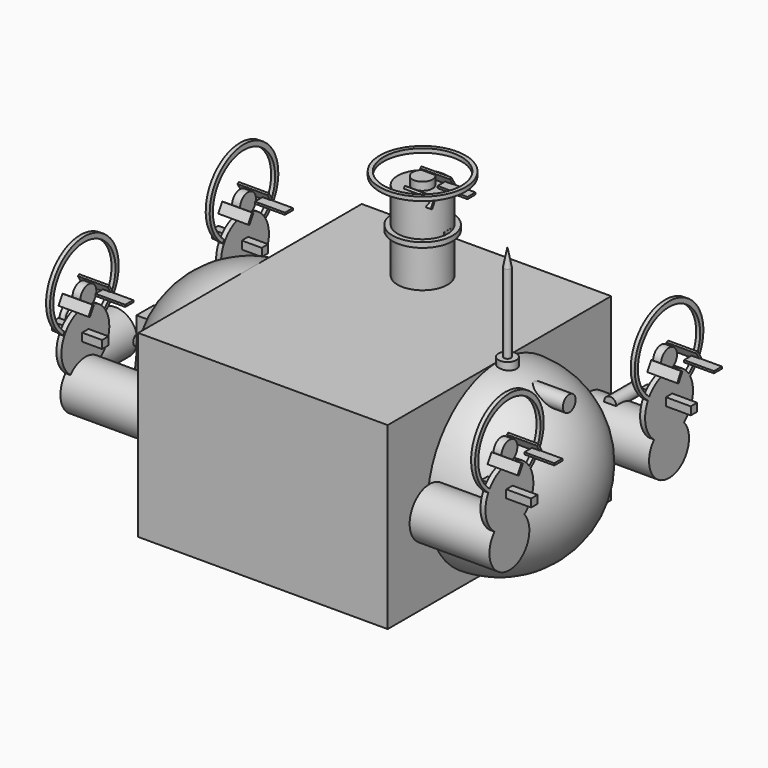
from build123d import *

# Parameters (mm, degrees)
CENTERINNER_W              = 242
CENTERINNER_H              = 272
CENTERINNER_DEPTH          = 172
CENTERBODY_W               = 250
CENTERBODY_H               = 280
CENTERBODY_DEPTH           = 180
OBJ1_R                = 30
OBJ1_DEPTH            = 5
OBJ2_R                   = 10
OBJ2_DEPTH               = 8
OBJ3_R               = 39
OBJ3_DEPTH           = 6
OBJ4              = 43
OBJ5          = 4
OBJ6_W                   = 50
OBJ6_H                   = 8
OBJ6_DEPTH               = 8
OBJ7               = 30
OBJ8               = 10
OBJ9           = 2
OBJ10               = 30
OBJ11               = 10
OBJ12           = 2
OBJ13 = 120
OBJ14               = 30
OBJ15               = 10
OBJ16           = 2
OBJ17 = 240
OBJ18                 = 25
OBJ19             = 80
FLANGE_FR_R                = 30
FLANGE_FR_DEPTH            = 5
HUB_FR_R                   = 10
HUB_FR_DEPTH               = 8
OBJ20_R               = 39
OBJ20_DEPTH           = 6
OBJ21              = 43
OBJ22          = 4
ARM_FR_W                   = 50
ARM_FR_H                   = 8
ARM_FR_DEPTH               = 8
BLADE_FR_0_W               = 30
BLADE_FR_0_H               = 10
BLADE_FR_0_DEPTH           = 2
BLADE_FR_1_W               = 30
BLADE_FR_1_H               = 10
BLADE_FR_1_DEPTH           = 2
BLADE_FR_1_PLACEMENT_ANGLE = 120
BLADE_FR_2_W               = 30
BLADE_FR_2_H               = 10
BLADE_FR_2_DEPTH           = 2
BLADE_FR_2_PLACEMENT_ANGLE = 240
MOTOR_FR_R                 = 25
MOTOR_FR_DEPTH             = 80
OBJ23_R                = 30
OBJ23_DEPTH            = 5
OBJ24_R                   = 10
OBJ24_DEPTH               = 8
OBJ25_R               = 39
OBJ25_DEPTH           = 6
OBJ26              = 43
OBJ27          = 4
OBJ28_W                   = 50
OBJ28_H                   = 8
OBJ28_DEPTH               = 8
OBJ29               = 30
OBJ30               = 10
OBJ31           = 2
OBJ32               = 30
OBJ33               = 10
OBJ34           = 2
OBJ35 = 120
OBJ36               = 30
OBJ37               = 10
OBJ38           = 2
OBJ39 = 240
OBJ40                 = 25
OBJ41             = 80
FLANGE_RR_R                = 30
FLANGE_RR_DEPTH            = 5
HUB_RR_R                   = 10
HUB_RR_DEPTH               = 8
OBJ42_R               = 39
OBJ42_DEPTH           = 6
OBJ43              = 43
OBJ44          = 4
ARM_RR_W                   = 50
ARM_RR_H                   = 8
ARM_RR_DEPTH               = 8
BLADE_RR_0_W               = 30
BLADE_RR_0_H               = 10
BLADE_RR_0_DEPTH           = 2
BLADE_RR_1_W               = 30
BLADE_RR_1_H               = 10
BLADE_RR_1_DEPTH           = 2
BLADE_RR_1_PLACEMENT_ANGLE = 120
BLADE_RR_2_W               = 30
BLADE_RR_2_H               = 10
BLADE_RR_2_DEPTH           = 2
BLADE_RR_2_PLACEMENT_ANGLE = 240
MOTOR_RR_R                 = 25
MOTOR_RR_DEPTH             = 80
FLANGE_TV_R                = 30
FLANGE_TV_DEPTH            = 5
HUB_TV_R                   = 10
HUB_TV_DEPTH               = 8
OBJ45_R               = 39
OBJ45_DEPTH           = 6
OBJ46              = 43
OBJ47          = 4
ARM_TV_W                   = 50
ARM_TV_H                   = 8
ARM_TV_DEPTH               = 8
BLADE_TV_0_W               = 30
BLADE_TV_0_H               = 10
BLADE_TV_0_DEPTH           = 2
BLADE_TV_1_W               = 30
BLADE_TV_1_H               = 10
BLADE_TV_1_DEPTH           = 2
BLADE_TV_1_PLACEMENT_ANGLE = 120
BLADE_TV_2_W               = 30
BLADE_TV_2_H               = 10
BLADE_TV_2_DEPTH           = 2
BLADE_TV_2_PLACEMENT_ANGLE = 240
MOTOR_TV_R                 = 25
MOTOR_TV_DEPTH             = 80
OBJ48_R                = 30
OBJ48_DEPTH            = 5
OBJ49_R                   = 10
OBJ49_DEPTH               = 8
OBJ50_R               = 39
OBJ50_DEPTH           = 6
OBJ51              = 43
OBJ52          = 4
OBJ53_W                   = 50
OBJ53_H                   = 8
OBJ53_DEPTH               = 8
OBJ54               = 30
OBJ55               = 10
OBJ56           = 2
OBJ57               = 30
OBJ58               = 10
OBJ59           = 2
OBJ60 = 120
OBJ61               = 30
OBJ62               = 10
OBJ63           = 2
OBJ64 = 240
OBJ65                 = 25
OBJ66             = 80
BATTERYHOUSING_W           = 140
BATTERYHOUSING_H           = 90
BATTERYHOUSING_DEPTH       = 70
CELL_0_0_R                 = 9
CELL_0_0_DEPTH             = 65
CELL_0_1_R                 = 9
CELL_0_1_DEPTH             = 65
CELL_1_0_R                 = 9
CELL_1_0_DEPTH             = 65
CELL_1_1_R                 = 9
CELL_1_1_DEPTH             = 65
CELL_2_0_R                 = 9
CELL_2_0_DEPTH             = 65
CELL_2_1_R                 = 9
CELL_2_1_DEPTH             = 65
CELL_3_0_R                 = 9
CELL_3_0_DEPTH             = 65
CELL_3_1_R                 = 9
CELL_3_1_DEPTH             = 65
OBJ67_W                      = 50
OBJ67_H                      = 35
OBJ67_DEPTH                  = 2
MAINPCB_W                  = 180
MAINPCB_H                  = 120
MAINPCB_DEPTH              = 1.6
OBJ68_W                      = 35
OBJ68_H                      = 35
OBJ68_DEPTH                  = 4
ESC_0_W                    = 38
ESC_0_H                    = 20
ESC_0_DEPTH                = 10
ESC_1_W                    = 38
ESC_1_H                    = 20
ESC_1_DEPTH                = 10
ESC_2_W                    = 38
ESC_2_H                    = 20
ESC_2_DEPTH                = 10
ESC_3_W                    = 38
ESC_3_H                    = 20
ESC_3_DEPTH                = 10
ESC_4_W                    = 38
ESC_4_H                    = 20
ESC_4_DEPTH                = 10
ESC_5_W                    = 38
ESC_5_H                    = 20
ESC_5_DEPTH                = 10
POWERCONNECTOR_R           = 8
POWERCONNECTOR_DEPTH       = 35
OBJ69_R            = 6
OBJ69_DEPTH        = 30
SERVOBOX_W                 = 45
SERVOBOX_H                 = 22
SERVOBOX_DEPTH             = 38
LINESPOOL_R                = 22
LINESPOOL_DEPTH            = 45
GUIDEINNER_R               = 3
GUIDEINNER_DEPTH           = 50
GUIDEOUTER_R               = 5
GUIDEOUTER_DEPTH           = 45
HOOKRING_R                 = 2.5
LENS_R                     = 9
LENS_DEPTH                 = 12
LED_LEFT_R                 = 11
LED_LEFT_DEPTH             = 22
LED_RIGHT_R                = 11
LED_RIGHT_DEPTH            = 22
ANTENNABASE_R              = 9
ANTENNABASE_DEPTH          = 12
ANTENNAMAST_R              = 3.5
ANTENNAMAST_DEPTH          = 85


with BuildPart() as noseinner:
    # NoseInner → NoseInner (revolve)
    with BuildSketch(Plane(origin=(-123, 0, 0), x_dir=(1, 0, 0), z_dir=(0, -1, 0))):
        with BuildLine():
            ThreePointArc((0, -86), (86, 0), (0, 86))
            Line((0, 86), (0, -86))
        make_face()
    revolve(axis=Axis((-123, 0, 0), (0, 0, 1)))


with BuildPart() as tailinner:
    # TailInner → TailInner (revolve)
    with BuildSketch(Plane(origin=(123, 0, 0), x_dir=(1, 0, 0), z_dir=(0, -1, 0))):
        with BuildLine():
            ThreePointArc((0, -86), (86, 0), (0, 86))
            Line((0, 86), (0, -86))
        make_face()
    revolve(axis=Axis((123, 0, 0), (0, 0, 1)))


with BuildPart() as bodyinner:
    # CenterInner → CenterInner (new body)
    with BuildSketch(Plane(origin=(-121, -136, -86), x_dir=(1, 0, 0), z_dir=(0, 0, 1))):
        with Locations((121, 136)):
            Rectangle(CENTERINNER_W, CENTERINNER_H)
    extrude(amount=CENTERINNER_DEPTH)

    # BodyInner: union NoseInner, TailInner
    add(noseinner.part)
    add(tailinner.part)


with BuildPart() as nose:
    # Nose → Nose (revolve)
    with BuildSketch(Plane(origin=(-125, 0, 0), x_dir=(1, 0, 0), z_dir=(0, -1, 0))):
        with BuildLine():
            ThreePointArc((0, -90), (90, 0), (0, 90))
            Line((0, 90), (0, -90))
        make_face()
    revolve(axis=Axis((-125, 0, 0), (0, 0, 1)))


with BuildPart() as tail:
    # Tail → Tail (revolve)
    with BuildSketch(Plane(origin=(125, 0, 0), x_dir=(1, 0, 0), z_dir=(0, -1, 0))):
        with BuildLine():
            ThreePointArc((0, -90), (90, 0), (0, 90))
            Line((0, 90), (0, -90))
        make_face()
    revolve(axis=Axis((125, 0, 0), (0, 0, 1)))


with BuildPart() as hollowbody:
    # CenterBody → CenterBody (new body)
    with BuildSketch(Plane(origin=(-125, -140, -90), x_dir=(1, 0, 0), z_dir=(0, 0, 1))):
        with Locations((125, 140)):
            Rectangle(CENTERBODY_W, CENTERBODY_H)
    extrude(amount=CENTERBODY_DEPTH)

    # BodyOuter: union Nose, Tail
    add(nose.part)
    add(tail.part)

    # HollowBody: cut BodyInner
    add(bodyinner.part, mode=Mode.SUBTRACT)


with BuildPart() as obj1:
    # obj1 → obj1 (new body)
    with BuildSketch(Plane(origin=(-215, 100, 40), x_dir=(0, 0, -1), z_dir=(1, 0, 0))):
        Circle(OBJ1_R)
    extrude(amount=OBJ1_DEPTH)


with BuildPart() as obj2:
    # obj2 → obj2 (new body)
    with BuildSketch(Plane(origin=(-215, 100, 80), x_dir=(0, 0, -1), z_dir=(1, 0, 0))):
        Circle(OBJ2_R)
    extrude(amount=OBJ2_DEPTH)


with BuildPart() as obj3:
    # obj3 → obj3 (new body)
    with BuildSketch(Plane(origin=(-215, 100, 87), x_dir=(0, 0, -1), z_dir=(1, 0, 0))):
        Circle(OBJ3_R)
    extrude(amount=OBJ3_DEPTH)


with BuildPart() as obj70:
    with BuildSketch(Plane(origin=(-215, 100, 88), x_dir=(0, 0, -1), z_dir=(1, 0, 0))):
        Circle(OBJ4)
    extrude(amount=OBJ5)

    # obj70: cut obj3
    add(obj3.part, mode=Mode.SUBTRACT)


with BuildPart() as obj6:
    # obj6 → obj6 (new body)
    with BuildSketch(Plane(origin=(-240, 96, 40), x_dir=(1, 0, 0), z_dir=(0, 0, 1))):
        with Locations((25, 4)):
            Rectangle(OBJ6_W, OBJ6_H)
    extrude(amount=OBJ6_DEPTH)


with BuildPart() as obj71:
    with BuildSketch(Plane(origin=(-200, 100, 82), x_dir=(1, 0, 0), z_dir=(0, 0, 1))):
        with Locations((15, 5)):
            Rectangle(OBJ7, OBJ8)
    extrude(amount=OBJ9)


with BuildPart() as obj72:
    with BuildSketch(Plane.XY):
        with Locations((15, 5)):
            Rectangle(OBJ10, OBJ11)
    extrude(amount=OBJ12)


with BuildPart() as obj72_1:
    add(obj72.part.moved(Location((-222.5, 112.990381, 82))).rotate(Axis((-222.5, 112.990381, 82), (1, 0, 0)), OBJ13))


with BuildPart() as obj73:
    with BuildSketch(Plane.XY):
        with Locations((15, 5)):
            Rectangle(OBJ14, OBJ15)
    extrude(amount=OBJ16)


with BuildPart() as obj73_1:
    add(obj73.part.moved(Location((-222.5, 87.009619, 82))).rotate(Axis((-222.5, 87.009619, 82), (1, 0, 0)), OBJ17))


with BuildPart() as obj74:
    with BuildSketch(Plane(origin=(-215, 100, 0), x_dir=(0, 0, -1), z_dir=(1, 0, 0))):
        Circle(OBJ18)
    extrude(amount=OBJ19)

    # obj74: union obj1, obj2, obj70, obj6, obj71, obj72, obj73
    add(obj1.part)
    add(obj2.part)
    add(obj70.part)
    add(obj6.part)
    add(obj71.part)
    add(obj72_1.part)
    add(obj73_1.part)


with BuildPart() as flange_fr:
    # Flange_FR → Flange_FR (new body)
    with BuildSketch(Plane(origin=(-215, -100, 40), x_dir=(0, 0, -1), z_dir=(1, 0, 0))):
        Circle(FLANGE_FR_R)
    extrude(amount=FLANGE_FR_DEPTH)


with BuildPart() as hub_fr:
    # Hub_FR → Hub_FR (new body)
    with BuildSketch(Plane(origin=(-215, -100, 80), x_dir=(0, 0, -1), z_dir=(1, 0, 0))):
        Circle(HUB_FR_R)
    extrude(amount=HUB_FR_DEPTH)


with BuildPart() as obj20:
    # obj20 → obj20 (new body)
    with BuildSketch(Plane(origin=(-215, -100, 87), x_dir=(0, 0, -1), z_dir=(1, 0, 0))):
        Circle(OBJ20_R)
    extrude(amount=OBJ20_DEPTH)


with BuildPart() as guard_fr:
    with BuildSketch(Plane(origin=(-215, -100, 88), x_dir=(0, 0, -1), z_dir=(1, 0, 0))):
        Circle(OBJ21)
    extrude(amount=OBJ22)

    # Guard_FR: cut obj20
    add(obj20.part, mode=Mode.SUBTRACT)


with BuildPart() as arm_fr:
    # Arm_FR → Arm_FR (new body)
    with BuildSketch(Plane(origin=(-240, -104, 40), x_dir=(1, 0, 0), z_dir=(0, 0, 1))):
        with Locations((25, 4)):
            Rectangle(ARM_FR_W, ARM_FR_H)
    extrude(amount=ARM_FR_DEPTH)


with BuildPart() as blade_fr_0_body:
    # Blade_FR_0 → Blade_FR_0 (new body)
    with BuildSketch(Plane(origin=(-200, -100, 82), x_dir=(1, 0, 0), z_dir=(0, 0, 1))):
        with Locations((15, 5)):
            Rectangle(BLADE_FR_0_W, BLADE_FR_0_H)
    extrude(amount=BLADE_FR_0_DEPTH)


with BuildPart() as blade_fr_1_body:
    # Blade_FR_1 → Blade_FR_1 (new body)
    with BuildSketch(Plane.XY):
        with Locations((15, 5)):
            Rectangle(BLADE_FR_1_W, BLADE_FR_1_H)
    extrude(amount=BLADE_FR_1_DEPTH)


with BuildPart() as blade_fr_1_body_1:
    # Blade_FR_1 placement: moved
    add(blade_fr_1_body.part.moved(Location((-222.5, -87.009619, 82))).rotate(Axis((-222.5, -87.009619, 82), (1, 0, 0)), BLADE_FR_1_PLACEMENT_ANGLE))


with BuildPart() as blade_fr_2_body:
    # Blade_FR_2 → Blade_FR_2 (new body)
    with BuildSketch(Plane.XY):
        with Locations((15, 5)):
            Rectangle(BLADE_FR_2_W, BLADE_FR_2_H)
    extrude(amount=BLADE_FR_2_DEPTH)


with BuildPart() as blade_fr_2_body_1:
    # Blade_FR_2 placement: moved
    add(blade_fr_2_body.part.moved(Location((-222.5, -112.990381, 82))).rotate(Axis((-222.5, -112.990381, 82), (1, 0, 0)), BLADE_FR_2_PLACEMENT_ANGLE))


with BuildPart() as thruster_fr:
    # Motor_FR → Motor_FR (new body)
    with BuildSketch(Plane(origin=(-215, -100, 0), x_dir=(0, 0, -1), z_dir=(1, 0, 0))):
        Circle(MOTOR_FR_R)
    extrude(amount=MOTOR_FR_DEPTH)

    # Thruster_FR: union Flange_FR, Hub_FR, Guard_FR, Arm_FR, Blade_FR_0 body, Blade_FR_1 body, Blade_FR_2 body
    add(flange_fr.part)
    add(hub_fr.part)
    add(guard_fr.part)
    add(arm_fr.part)
    add(blade_fr_0_body.part)
    add(blade_fr_1_body_1.part)
    add(blade_fr_2_body_1.part)


with BuildPart() as obj23:
    # obj23 → obj23 (new body)
    with BuildSketch(Plane(origin=(215, 100, 40), x_dir=(0, 0, 1), z_dir=(-1, 0, 0))):
        Circle(OBJ23_R)
    extrude(amount=OBJ23_DEPTH)


with BuildPart() as obj24:
    # obj24 → obj24 (new body)
    with BuildSketch(Plane(origin=(215, 100, 80), x_dir=(0, 0, 1), z_dir=(-1, 0, 0))):
        Circle(OBJ24_R)
    extrude(amount=OBJ24_DEPTH)


with BuildPart() as obj25:
    # obj25 → obj25 (new body)
    with BuildSketch(Plane(origin=(215, 100, 87), x_dir=(0, 0, 1), z_dir=(-1, 0, 0))):
        Circle(OBJ25_R)
    extrude(amount=OBJ25_DEPTH)


with BuildPart() as obj75:
    with BuildSketch(Plane(origin=(215, 100, 88), x_dir=(0, 0, 1), z_dir=(-1, 0, 0))):
        Circle(OBJ26)
    extrude(amount=OBJ27)

    # obj75: cut obj25
    add(obj25.part, mode=Mode.SUBTRACT)


with BuildPart() as obj28:
    # obj28 → obj28 (new body)
    with BuildSketch(Plane(origin=(190, 96, 40), x_dir=(1, 0, 0), z_dir=(0, 0, 1))):
        with Locations((25, 4)):
            Rectangle(OBJ28_W, OBJ28_H)
    extrude(amount=OBJ28_DEPTH)


with BuildPart() as obj76:
    with BuildSketch(Plane(origin=(230, 100, 82), x_dir=(1, 0, 0), z_dir=(0, 0, 1))):
        with Locations((15, 5)):
            Rectangle(OBJ29, OBJ30)
    extrude(amount=OBJ31)


with BuildPart() as obj77:
    with BuildSketch(Plane.XY):
        with Locations((15, 5)):
            Rectangle(OBJ32, OBJ33)
    extrude(amount=OBJ34)


with BuildPart() as obj77_1:
    add(obj77.part.moved(Location((207.5, 112.990381, 82))).rotate(Axis((207.5, 112.990381, 82), (1, 0, 0)), OBJ35))


with BuildPart() as obj78:
    with BuildSketch(Plane.XY):
        with Locations((15, 5)):
            Rectangle(OBJ36, OBJ37)
    extrude(amount=OBJ38)


with BuildPart() as obj78_1:
    add(obj78.part.moved(Location((207.5, 87.009619, 82))).rotate(Axis((207.5, 87.009619, 82), (1, 0, 0)), OBJ39))


with BuildPart() as obj79:
    with BuildSketch(Plane(origin=(215, 100, 0), x_dir=(0, 0, 1), z_dir=(-1, 0, 0))):
        Circle(OBJ40)
    extrude(amount=OBJ41)

    # obj79: union obj23, obj24, obj75, obj28, obj76, obj77, obj78
    add(obj23.part)
    add(obj24.part)
    add(obj75.part)
    add(obj28.part)
    add(obj76.part)
    add(obj77_1.part)
    add(obj78_1.part)


with BuildPart() as flange_rr:
    # Flange_RR → Flange_RR (new body)
    with BuildSketch(Plane(origin=(215, -100, 40), x_dir=(0, 0, 1), z_dir=(-1, 0, 0))):
        Circle(FLANGE_RR_R)
    extrude(amount=FLANGE_RR_DEPTH)


with BuildPart() as hub_rr:
    # Hub_RR → Hub_RR (new body)
    with BuildSketch(Plane(origin=(215, -100, 80), x_dir=(0, 0, 1), z_dir=(-1, 0, 0))):
        Circle(HUB_RR_R)
    extrude(amount=HUB_RR_DEPTH)


with BuildPart() as obj42:
    # obj42 → obj42 (new body)
    with BuildSketch(Plane(origin=(215, -100, 87), x_dir=(0, 0, 1), z_dir=(-1, 0, 0))):
        Circle(OBJ42_R)
    extrude(amount=OBJ42_DEPTH)


with BuildPart() as guard_rr:
    with BuildSketch(Plane(origin=(215, -100, 88), x_dir=(0, 0, 1), z_dir=(-1, 0, 0))):
        Circle(OBJ43)
    extrude(amount=OBJ44)

    # Guard_RR: cut obj42
    add(obj42.part, mode=Mode.SUBTRACT)


with BuildPart() as arm_rr:
    # Arm_RR → Arm_RR (new body)
    with BuildSketch(Plane(origin=(190, -104, 40), x_dir=(1, 0, 0), z_dir=(0, 0, 1))):
        with Locations((25, 4)):
            Rectangle(ARM_RR_W, ARM_RR_H)
    extrude(amount=ARM_RR_DEPTH)


with BuildPart() as blade_rr_0_body:
    # Blade_RR_0 → Blade_RR_0 (new body)
    with BuildSketch(Plane(origin=(230, -100, 82), x_dir=(1, 0, 0), z_dir=(0, 0, 1))):
        with Locations((15, 5)):
            Rectangle(BLADE_RR_0_W, BLADE_RR_0_H)
    extrude(amount=BLADE_RR_0_DEPTH)


with BuildPart() as blade_rr_1_body:
    # Blade_RR_1 → Blade_RR_1 (new body)
    with BuildSketch(Plane.XY):
        with Locations((15, 5)):
            Rectangle(BLADE_RR_1_W, BLADE_RR_1_H)
    extrude(amount=BLADE_RR_1_DEPTH)


with BuildPart() as blade_rr_1_body_1:
    # Blade_RR_1 placement: moved
    add(blade_rr_1_body.part.moved(Location((207.5, -87.009619, 82))).rotate(Axis((207.5, -87.009619, 82), (1, 0, 0)), BLADE_RR_1_PLACEMENT_ANGLE))


with BuildPart() as blade_rr_2_body:
    # Blade_RR_2 → Blade_RR_2 (new body)
    with BuildSketch(Plane.XY):
        with Locations((15, 5)):
            Rectangle(BLADE_RR_2_W, BLADE_RR_2_H)
    extrude(amount=BLADE_RR_2_DEPTH)


with BuildPart() as blade_rr_2_body_1:
    # Blade_RR_2 placement: moved
    add(blade_rr_2_body.part.moved(Location((207.5, -112.990381, 82))).rotate(Axis((207.5, -112.990381, 82), (1, 0, 0)), BLADE_RR_2_PLACEMENT_ANGLE))


with BuildPart() as thruster_rr:
    # Motor_RR → Motor_RR (new body)
    with BuildSketch(Plane(origin=(215, -100, 0), x_dir=(0, 0, 1), z_dir=(-1, 0, 0))):
        Circle(MOTOR_RR_R)
    extrude(amount=MOTOR_RR_DEPTH)

    # Thruster_RR: union Flange_RR, Hub_RR, Guard_RR, Arm_RR, Blade_RR_0 body, Blade_RR_1 body, Blade_RR_2 body
    add(flange_rr.part)
    add(hub_rr.part)
    add(guard_rr.part)
    add(arm_rr.part)
    add(blade_rr_0_body.part)
    add(blade_rr_1_body_1.part)
    add(blade_rr_2_body_1.part)


with BuildPart() as flange_tv:
    # Flange_TV → Flange_TV (new body)
    with BuildSketch(Plane(origin=(0, 60, 140), x_dir=(1, 0, 0), z_dir=(0, 0, 1))):
        Circle(FLANGE_TV_R)
    extrude(amount=FLANGE_TV_DEPTH)


with BuildPart() as hub_tv:
    # Hub_TV → Hub_TV (new body)
    with BuildSketch(Plane(origin=(0, 60, 180), x_dir=(1, 0, 0), z_dir=(0, 0, 1))):
        Circle(HUB_TV_R)
    extrude(amount=HUB_TV_DEPTH)


with BuildPart() as obj45:
    # obj45 → obj45 (new body)
    with BuildSketch(Plane(origin=(0, 60, 187), x_dir=(1, 0, 0), z_dir=(0, 0, 1))):
        Circle(OBJ45_R)
    extrude(amount=OBJ45_DEPTH)


with BuildPart() as guard_tv:
    with BuildSketch(Plane(origin=(0, 60, 188), x_dir=(1, 0, 0), z_dir=(0, 0, 1))):
        Circle(OBJ46)
    extrude(amount=OBJ47)

    # Guard_TV: cut obj45
    add(obj45.part, mode=Mode.SUBTRACT)


with BuildPart() as arm_tv:
    # Arm_TV → Arm_TV (new body)
    with BuildSketch(Plane(origin=(-25, 56, 140), x_dir=(1, 0, 0), z_dir=(0, 0, 1))):
        with Locations((25, 4)):
            Rectangle(ARM_TV_W, ARM_TV_H)
    extrude(amount=ARM_TV_DEPTH)


with BuildPart() as blade_tv_0_body:
    # Blade_TV_0 → Blade_TV_0 (new body)
    with BuildSketch(Plane(origin=(15, 60, 182), x_dir=(1, 0, 0), z_dir=(0, 0, 1))):
        with Locations((15, 5)):
            Rectangle(BLADE_TV_0_W, BLADE_TV_0_H)
    extrude(amount=BLADE_TV_0_DEPTH)


with BuildPart() as blade_tv_1_body:
    # Blade_TV_1 → Blade_TV_1 (new body)
    with BuildSketch(Plane.XY):
        with Locations((15, 5)):
            Rectangle(BLADE_TV_1_W, BLADE_TV_1_H)
    extrude(amount=BLADE_TV_1_DEPTH)


with BuildPart() as blade_tv_1_body_1:
    # Blade_TV_1 placement: moved
    add(blade_tv_1_body.part.moved(Location((-7.5, 72.990381, 182))).rotate(Axis((-7.5, 72.990381, 182), (1, 0, 0)), BLADE_TV_1_PLACEMENT_ANGLE))


with BuildPart() as blade_tv_2_body:
    # Blade_TV_2 → Blade_TV_2 (new body)
    with BuildSketch(Plane.XY):
        with Locations((15, 5)):
            Rectangle(BLADE_TV_2_W, BLADE_TV_2_H)
    extrude(amount=BLADE_TV_2_DEPTH)


with BuildPart() as blade_tv_2_body_1:
    # Blade_TV_2 placement: moved
    add(blade_tv_2_body.part.moved(Location((-7.5, 47.009619, 182))).rotate(Axis((-7.5, 47.009619, 182), (1, 0, 0)), BLADE_TV_2_PLACEMENT_ANGLE))


with BuildPart() as thruster_tv:
    # Motor_TV → Motor_TV (new body)
    with BuildSketch(Plane(origin=(0, 60, 100), x_dir=(1, 0, 0), z_dir=(0, 0, 1))):
        Circle(MOTOR_TV_R)
    extrude(amount=MOTOR_TV_DEPTH)

    # Thruster_TV: union Flange_TV, Hub_TV, Guard_TV, Arm_TV, Blade_TV_0 body, Blade_TV_1 body, Blade_TV_2 body
    add(flange_tv.part)
    add(hub_tv.part)
    add(guard_tv.part)
    add(arm_tv.part)
    add(blade_tv_0_body.part)
    add(blade_tv_1_body_1.part)
    add(blade_tv_2_body_1.part)


with BuildPart() as obj48:
    # obj48 → obj48 (new body)
    with BuildSketch(Plane(origin=(0, -60, -60), x_dir=(1, 0, 0), z_dir=(0, 0, 1))):
        Circle(OBJ48_R)
    extrude(amount=OBJ48_DEPTH)


with BuildPart() as obj49:
    # obj49 → obj49 (new body)
    with BuildSketch(Plane(origin=(0, -60, -20), x_dir=(1, 0, 0), z_dir=(0, 0, 1))):
        Circle(OBJ49_R)
    extrude(amount=OBJ49_DEPTH)


with BuildPart() as obj50:
    # obj50 → obj50 (new body)
    with BuildSketch(Plane(origin=(0, -60, -13), x_dir=(1, 0, 0), z_dir=(0, 0, 1))):
        Circle(OBJ50_R)
    extrude(amount=OBJ50_DEPTH)


with BuildPart() as obj80:
    with BuildSketch(Plane(origin=(0, -60, -12), x_dir=(1, 0, 0), z_dir=(0, 0, 1))):
        Circle(OBJ51)
    extrude(amount=OBJ52)

    # obj80: cut obj50
    add(obj50.part, mode=Mode.SUBTRACT)


with BuildPart() as obj53:
    # obj53 → obj53 (new body)
    with BuildSketch(Plane(origin=(-25, -64, -60), x_dir=(1, 0, 0), z_dir=(0, 0, 1))):
        with Locations((25, 4)):
            Rectangle(OBJ53_W, OBJ53_H)
    extrude(amount=OBJ53_DEPTH)


with BuildPart() as obj81:
    with BuildSketch(Plane(origin=(15, -60, -18), x_dir=(1, 0, 0), z_dir=(0, 0, 1))):
        with Locations((15, 5)):
            Rectangle(OBJ54, OBJ55)
    extrude(amount=OBJ56)


with BuildPart() as obj82:
    with BuildSketch(Plane.XY):
        with Locations((15, 5)):
            Rectangle(OBJ57, OBJ58)
    extrude(amount=OBJ59)


with BuildPart() as obj82_1:
    add(obj82.part.moved(Location((-7.5, -47.009619, -18))).rotate(Axis((-7.5, -47.009619, -18), (1, 0, 0)), OBJ60))


with BuildPart() as obj83:
    with BuildSketch(Plane.XY):
        with Locations((15, 5)):
            Rectangle(OBJ61, OBJ62)
    extrude(amount=OBJ63)


with BuildPart() as obj83_1:
    add(obj83.part.moved(Location((-7.5, -72.990381, -18))).rotate(Axis((-7.5, -72.990381, -18), (1, 0, 0)), OBJ64))


with BuildPart() as obj84:
    with BuildSketch(Plane(origin=(0, -60, -100), x_dir=(1, 0, 0), z_dir=(0, 0, 1))):
        Circle(OBJ65)
    extrude(amount=OBJ66)

    # obj84: union obj48, obj49, obj80, obj53, obj81, obj82, obj83
    add(obj48.part)
    add(obj49.part)
    add(obj80.part)
    add(obj53.part)
    add(obj81.part)
    add(obj82_1.part)
    add(obj83_1.part)


with BuildPart() as batteryhousing:
    # BatteryHousing → BatteryHousing (new body)
    with BuildSketch(Plane(origin=(-70, -45, -75), x_dir=(1, 0, 0), z_dir=(0, 0, 1))):
        with Locations((70, 45)):
            Rectangle(BATTERYHOUSING_W, BATTERYHOUSING_H)
    extrude(amount=BATTERYHOUSING_DEPTH)


with BuildPart() as cell_0_0_body:
    # Cell_0_0 → Cell_0_0 (new body)
    with BuildSketch(Plane(origin=(-45, -20, -72), x_dir=(1, 0, 0), z_dir=(0, 0, 1))):
        Circle(CELL_0_0_R)
    extrude(amount=CELL_0_0_DEPTH)


with BuildPart() as cell_0_1_body:
    # Cell_0_1 → Cell_0_1 (new body)
    with BuildSketch(Plane(origin=(-45, 20, -72), x_dir=(1, 0, 0), z_dir=(0, 0, 1))):
        Circle(CELL_0_1_R)
    extrude(amount=CELL_0_1_DEPTH)


with BuildPart() as cell_1_0_body:
    # Cell_1_0 → Cell_1_0 (new body)
    with BuildSketch(Plane(origin=(-15, -20, -72), x_dir=(1, 0, 0), z_dir=(0, 0, 1))):
        Circle(CELL_1_0_R)
    extrude(amount=CELL_1_0_DEPTH)


with BuildPart() as cell_1_1_body:
    # Cell_1_1 → Cell_1_1 (new body)
    with BuildSketch(Plane(origin=(-15, 20, -72), x_dir=(1, 0, 0), z_dir=(0, 0, 1))):
        Circle(CELL_1_1_R)
    extrude(amount=CELL_1_1_DEPTH)


with BuildPart() as cell_2_0_body:
    # Cell_2_0 → Cell_2_0 (new body)
    with BuildSketch(Plane(origin=(15, -20, -72), x_dir=(1, 0, 0), z_dir=(0, 0, 1))):
        Circle(CELL_2_0_R)
    extrude(amount=CELL_2_0_DEPTH)


with BuildPart() as cell_2_1_body:
    # Cell_2_1 → Cell_2_1 (new body)
    with BuildSketch(Plane(origin=(15, 20, -72), x_dir=(1, 0, 0), z_dir=(0, 0, 1))):
        Circle(CELL_2_1_R)
    extrude(amount=CELL_2_1_DEPTH)


with BuildPart() as cell_3_0_body:
    # Cell_3_0 → Cell_3_0 (new body)
    with BuildSketch(Plane(origin=(45, -20, -72), x_dir=(1, 0, 0), z_dir=(0, 0, 1))):
        Circle(CELL_3_0_R)
    extrude(amount=CELL_3_0_DEPTH)


with BuildPart() as cell_3_1_body:
    # Cell_3_1 → Cell_3_1 (new body)
    with BuildSketch(Plane(origin=(45, 20, -72), x_dir=(1, 0, 0), z_dir=(0, 0, 1))):
        Circle(CELL_3_1_R)
    extrude(amount=CELL_3_1_DEPTH)


with BuildPart() as obj67:
    # obj67 → obj67 (new body)
    with BuildSketch(Plane(origin=(-25, -17.5, -5), x_dir=(1, 0, 0), z_dir=(0, 0, 1))):
        with Locations((25, 17.5)):
            Rectangle(OBJ67_W, OBJ67_H)
    extrude(amount=OBJ67_DEPTH)


with BuildPart() as mainpcb:
    # MainPCB → MainPCB (new body)
    with BuildSketch(Plane(origin=(-90, -60, 10), x_dir=(1, 0, 0), z_dir=(0, 0, 1))):
        with Locations((90, 60)):
            Rectangle(MAINPCB_W, MAINPCB_H)
    extrude(amount=MAINPCB_DEPTH)


with BuildPart() as obj68:
    # obj68 → obj68 (new body)
    with BuildSketch(Plane(origin=(-17.5, -17.5, 11.6), x_dir=(1, 0, 0), z_dir=(0, 0, 1))):
        with Locations((17.5, 17.5)):
            Rectangle(OBJ68_W, OBJ68_H)
    extrude(amount=OBJ68_DEPTH)


with BuildPart() as esc_0_body:
    # ESC_0 → ESC_0 (new body)
    with BuildSketch(Plane(origin=(-60, -50, 11.6), x_dir=(1, 0, 0), z_dir=(0, 0, 1))):
        with Locations((19, 10)):
            Rectangle(ESC_0_W, ESC_0_H)
    extrude(amount=ESC_0_DEPTH)


with BuildPart() as esc_1_body:
    # ESC_1 → ESC_1 (new body)
    with BuildSketch(Plane(origin=(-15, -50, 11.6), x_dir=(1, 0, 0), z_dir=(0, 0, 1))):
        with Locations((19, 10)):
            Rectangle(ESC_1_W, ESC_1_H)
    extrude(amount=ESC_1_DEPTH)


with BuildPart() as esc_2_body:
    # ESC_2 → ESC_2 (new body)
    with BuildSketch(Plane(origin=(30, -50, 11.6), x_dir=(1, 0, 0), z_dir=(0, 0, 1))):
        with Locations((19, 10)):
            Rectangle(ESC_2_W, ESC_2_H)
    extrude(amount=ESC_2_DEPTH)


with BuildPart() as esc_3_body:
    # ESC_3 → ESC_3 (new body)
    with BuildSketch(Plane(origin=(-60, 10, 11.6), x_dir=(1, 0, 0), z_dir=(0, 0, 1))):
        with Locations((19, 10)):
            Rectangle(ESC_3_W, ESC_3_H)
    extrude(amount=ESC_3_DEPTH)


with BuildPart() as esc_4_body:
    # ESC_4 → ESC_4 (new body)
    with BuildSketch(Plane(origin=(-15, 10, 11.6), x_dir=(1, 0, 0), z_dir=(0, 0, 1))):
        with Locations((19, 10)):
            Rectangle(ESC_4_W, ESC_4_H)
    extrude(amount=ESC_4_DEPTH)


with BuildPart() as esc_5_body:
    # ESC_5 → ESC_5 (new body)
    with BuildSketch(Plane(origin=(30, 10, 11.6), x_dir=(1, 0, 0), z_dir=(0, 0, 1))):
        with Locations((19, 10)):
            Rectangle(ESC_5_W, ESC_5_H)
    extrude(amount=ESC_5_DEPTH)


with BuildPart() as powerconnector:
    # PowerConnector → PowerConnector (new body)
    with BuildSketch(Plane(origin=(160, 0, 75), x_dir=(0, 0, -1), z_dir=(1, 0, 0))):
        Circle(POWERCONNECTOR_R)
    extrude(amount=POWERCONNECTOR_DEPTH)


with BuildPart() as obj69:
    # obj69 → obj69 (new body)
    with BuildSketch(Plane(origin=(160, 125, 25), x_dir=(1, 0, 0), z_dir=(0, -1, 0))):
        Circle(OBJ69_R)
    extrude(amount=OBJ69_DEPTH)


with BuildPart() as servobox:
    # ServoBox → ServoBox (new body)
    with BuildSketch(Plane(origin=(-230, -11, -19), x_dir=(1, 0, 0), z_dir=(0, 0, 1))):
        with Locations((22.5, 11)):
            Rectangle(SERVOBOX_W, SERVOBOX_H)
    extrude(amount=SERVOBOX_DEPTH)


with BuildPart() as linespool:
    # LineSpool → LineSpool (new body)
    with BuildSketch(Plane(origin=(-260, 0, -10), x_dir=(1, 0, 0), z_dir=(0, -1, 0))):
        Circle(LINESPOOL_R)
    extrude(amount=LINESPOOL_DEPTH)


with BuildPart() as guideinner:
    # GuideInner → GuideInner (new body)
    with BuildSketch(Plane(origin=(-282, 0, -10), x_dir=(0, 0, -1), z_dir=(1, 0, 0))):
        Circle(GUIDEINNER_R)
    extrude(amount=GUIDEINNER_DEPTH)


with BuildPart() as lineguide:
    # GuideOuter → GuideOuter (new body)
    with BuildSketch(Plane(origin=(-280, 0, -10), x_dir=(0, 0, -1), z_dir=(1, 0, 0))):
        Circle(GUIDEOUTER_R)
    extrude(amount=GUIDEOUTER_DEPTH)

    # LineGuide: cut GuideInner
    add(guideinner.part, mode=Mode.SUBTRACT)


with BuildPart() as hookring:
    # HookRing → HookRing (revolve)
    with BuildSketch(Plane(origin=(-305, 0, -10), x_dir=(0, 0, -1), z_dir=(0, -1, 0))):
        with Locations((10, 0)):
            Circle(HOOKRING_R)
    revolve(axis=Axis((-305, 0, -10), (1, 0, 0)))


with BuildPart() as camerahousing:
    # CameraHousing → CameraHousing (revolve)
    with BuildSketch(Plane(origin=(-116.666667, 0, -128), x_dir=(1, 0, 0), z_dir=(0, -1, 0))):
        with BuildLine():
            ThreePointArc((0, -22), (22, 0), (0, 22))
            Line((0, 22), (0, -22))
        make_face()
    revolve(axis=Axis((-116.666667, 0, -128), (0, 0, 1)))


with BuildPart() as lens:
    # Lens → Lens (new body)
    with BuildSketch(Plane(origin=(-116.666667, 0, -145), x_dir=(1, 0, 0), z_dir=(0, 0, 1))):
        Circle(LENS_R)
    extrude(amount=LENS_DEPTH)


with BuildPart() as led_left:
    # LED_Left → LED_Left (new body)
    with BuildSketch(Plane(origin=(-140, 108, 0), x_dir=(0, 0, -1), z_dir=(1, 0, 0))):
        Circle(LED_LEFT_R)
    extrude(amount=LED_LEFT_DEPTH)


with BuildPart() as led_right:
    # LED_Right → LED_Right (new body)
    with BuildSketch(Plane(origin=(-140, -108, 0), x_dir=(0, 0, -1), z_dir=(1, 0, 0))):
        Circle(LED_RIGHT_R)
    extrude(amount=LED_RIGHT_DEPTH)


with BuildPart() as antennatip:
    # AntennaTip → AntennaTip (revolve)
    with BuildSketch(Plane(origin=(133, 0, 175), x_dir=(1, 0, 0), z_dir=(0, -1, 0))):
        Polygon((0, 0), (3.5, 0), (0, 18), align=None)
    revolve(axis=Axis((133, 0, 175), (0, 0, 1)))


with BuildPart() as antennabase:
    # AntennaBase → AntennaBase (new body)
    with BuildSketch(Plane(origin=(133, 0, 84), x_dir=(1, 0, 0), z_dir=(0, 0, 1))):
        Circle(ANTENNABASE_R)
    extrude(amount=ANTENNABASE_DEPTH)


with BuildPart() as antenna:
    # AntennaMast → AntennaMast (new body)
    with BuildSketch(Plane(origin=(133, 0, 90), x_dir=(1, 0, 0), z_dir=(0, 0, 1))):
        Circle(ANTENNAMAST_R)
    extrude(amount=ANTENNAMAST_DEPTH)

    # Antenna: union AntennaTip, AntennaBase
    add(antennatip.part)
    add(antennabase.part)


solid = Compound([hollowbody.part, obj74.part, thruster_fr.part, obj79.part, thruster_rr.part, thruster_tv.part, obj84.part, batteryhousing.part, cell_0_0_body.part, cell_0_1_body.part, cell_1_0_body.part, cell_1_1_body.part, cell_2_0_body.part, cell_2_1_body.part, cell_3_0_body.part, cell_3_1_body.part, obj67.part, mainpcb.part, obj68.part, esc_0_body.part, esc_1_body.part, esc_2_body.part, esc_3_body.part, esc_4_body.part, esc_5_body.part, powerconnector.part, obj69.part, servobox.part, linespool.part, lineguide.part, hookring.part, camerahousing.part, lens.part, led_left.part, led_right.part, antenna.part])
